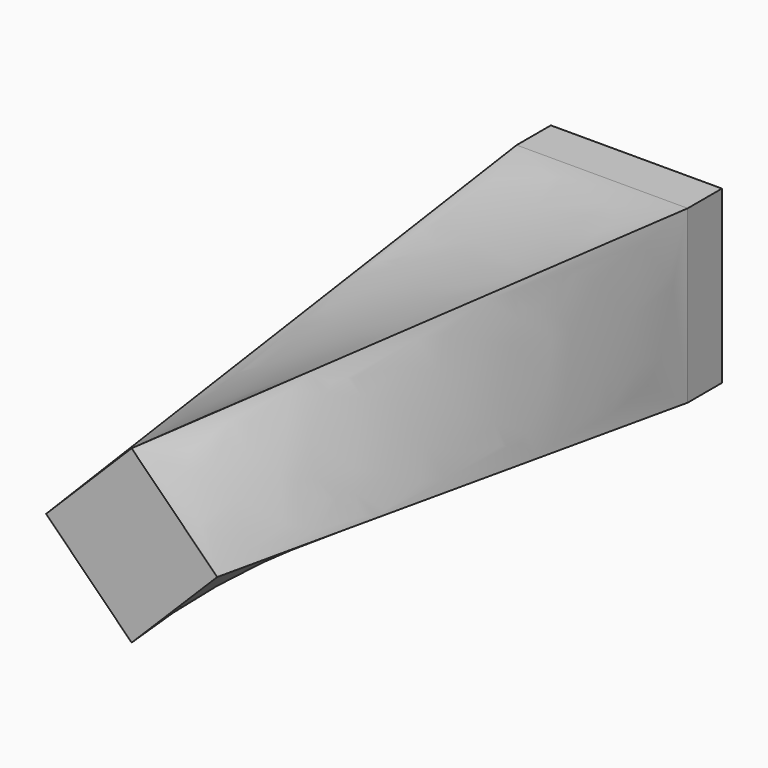
from build123d import *

# Parameters (mm, degrees)
F0_W      = 101.6
F0_H      = 101.6
F1_DEPTH  = 25.4
F1_FACE_W = 101.6
F1_FACE_H = 101.6


with BuildPart() as f1:
    # F0 (on Front) → F1 (new body)
    with BuildSketch(Plane.XZ):
        with Locations((50.8, 50.8)):
            Rectangle(F0_W, F0_H)
    extrude(amount=F1_DEPTH)

    # F1_face (on face) → F4 section 0
    with BuildSketch(Plane(origin=(50.8, -25.4, 50.8), x_dir=(1, 0, 0), z_dir=(0, -1, 0))):
        Rectangle(F1_FACE_W, F1_FACE_H)
    # F3 (on offset) → F4 section 1
    with BuildSketch(Plane.XZ.offset(374.65)):
        Polygon((0, 50.8), (50.8, 0), (101.6, 50.8), (50.8, 101.6), align=None)
    loft()


solid = f1.part
